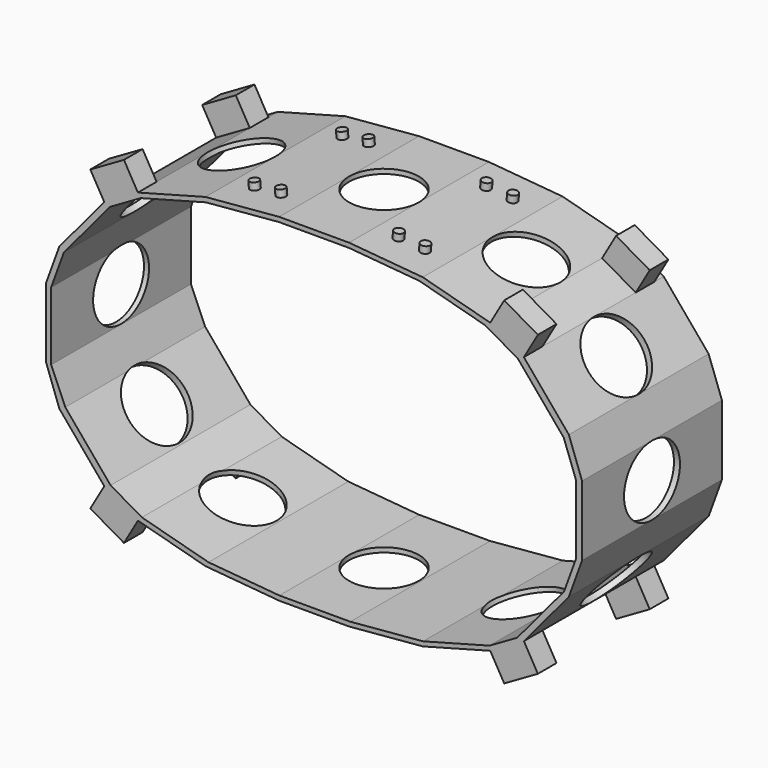
from build123d import *

# Parameters (mm, degrees)
PAD_DEPTH       = 75
SKETCH001_R     = 15
POCKET_DEPTH    = 3
SKETCH002_R     = 15
POCKET001_DEPTH = 3
SKETCH003_R     = 15
POCKET002_DEPTH = 3
SKETCH004_R     = 15
POCKET003_DEPTH = 3
SKETCH005_R     = 15
POCKET004_DEPTH = 3
SKETCH006_R     = 15
POCKET005_DEPTH = 3
SKETCH007_R     = 15
POCKET006_DEPTH = 3
SKETCH008_R     = 15
POCKET007_DEPTH = 3
SKETCH009_R     = 15
POCKET008_DEPTH = 3
SKETCH010_R     = 15
POCKET009_DEPTH = 3
SKETCH011_R     = 15
POCKET010_DEPTH = 3
SKETCH012_R     = 15
POCKET011_DEPTH = 3
SKETCH013_W     = 16.6623057169
SKETCH013_H     = 10
PAD001_DEPTH    = 12
SKETCH014_W     = 16.6623057169
SKETCH014_H     = 10
PAD002_DEPTH    = 12
SKETCH015_W     = 16.6623057169
SKETCH015_H     = 10
PAD003_DEPTH    = 12
SKETCH016_W     = 16.6623057169
SKETCH016_H     = 10
PAD004_DEPTH    = 12
SKETCH017_W     = 16.6623057169
SKETCH017_H     = 10
PAD005_DEPTH    = 12
SKETCH018_R     = 2
PAD006_DEPTH    = 3
SKETCH019_R     = 2
PAD007_DEPTH    = 3
SKETCH020_R     = 2
PAD008_DEPTH    = 3
SKETCH021_R     = 2
PAD009_DEPTH    = 3


with BuildPart() as part:
    # Sketch → Pad (new body)
    with BuildSketch(Plane.XZ):
        Polygon((-115, 15), (-115, -15), (-109.3011558106, -30.6574457275), (-90.01752752, -53.638779021), (-75.5875474835, -61.9699318795), (-46.6097726948, -69.7345032326), (-15, -72.5), (15, -72.5), (46.6097726948, -69.7345032326), (75.5875474835, -61.9699318795), (90.01752752, -53.638779021), (109.3011558106, -30.6574457275), (115, -15), (115, 15), (109.3011558106, 30.6574457275), (90.01752752, 53.638779021), (75.5875474835, 61.9699318795), (46.6097726948, 69.7345032326), (15, 72.5), (-15, 72.5), (-46.6097726948, 69.7345032326), (-75.5875474835, 61.9699318795), (-90.01752752, 53.638779021), (-109.3011558106, 30.6574457275), align=None)
        Polygon((-15, 70.5), (15, 70.5), (45.1474724059, 67.8624379305), (73.5017505011, 60.2649320129), (87.4928960516, 52.1871403631), (107.1664449714, 28.7411177589), (112.4249806172, 14.2934098125), (112.4249806172, -15.129325967), (107.2690057988, -29.295250356), (87.1410348375, -53.2828320607), (75.2862851494, -60.1271749843), (46.7496758605, -67.773536398), (15.5584899901, -70.5024115636), (-14.9018142644, -70.5024115636), (-45.3108694437, -67.8419639668), (-73.8953035194, -60.1827879401), (-87.3182795517, -52.4330291146), (-106.7555862722, -29.268549), (-112.8239045631, -15.209551), (-112.8239045631, 14.0555263106), (-107.3779577019, 29.0181423395), (-87.4996413362, 52.708197283), (-74.455381738, 60.2393040734), (-46.4214173604, 67.7509821891), align=None, mode=Mode.SUBTRACT)
    extrude(amount=PAD_DEPTH)

    # Sketch001 (on Face24 of Pad) → Pocket (cut)
    with BuildSketch(Plane(origin=(0, 0, 72.5), x_dir=(-1, 0, 0), z_dir=(0, 0, 1))):
        with Locations((0, 37.5)):
            Circle(SKETCH001_R)
    extrude(amount=-POCKET_DEPTH, mode=Mode.SUBTRACT)

    # Sketch002 (on Face28 of Pocket) → Pocket001 (cut)
    with BuildSketch(Plane(origin=(20.5558885464, 0, 76.7156204498), x_dir=(-0.9659258263, 0, 0.2588190451), z_dir=(0.2588190451, 0, 0.9659258263))):
        with Locations((-41.972965666, 37.5)):
            Circle(SKETCH002_R)
    extrude(amount=-POCKET001_DEPTH, mode=Mode.SUBTRACT)

    # Sketch003 (on Face4 of Pocket001) → Pocket002 (cut)
    with BuildSketch(Plane(origin=(-20.5558885464, 0, 76.7156204498), x_dir=(-0.9659258263, 0, -0.2588190451), z_dir=(-0.2588190451, 0, 0.9659258263))):
        with Locations((41.972965666, 37.5)):
            Circle(SKETCH003_R)
    extrude(amount=-POCKET002_DEPTH, mode=Mode.SUBTRACT)

    # Sketch004 (on Face28 of Pocket002) → Pocket003 (cut)
    with BuildSketch(Plane(origin=(79.236396287, 0, 66.4872309002), x_dir=(-0.6427876097, 0, 0.7660444431), z_dir=(0.7660444431, 0, 0.6427876097))):
        with Locations((-31.7724627397, 37.5)):
            Circle(SKETCH004_R)
    extrude(amount=-POCKET003_DEPTH, mode=Mode.SUBTRACT)

    # Sketch005 (on Face12 of Pocket003) → Pocket004 (cut)
    with BuildSketch(Plane(origin=(-79.236396287, 0, 66.4872309002), x_dir=(-0.6427876097, 0, -0.7660444431), z_dir=(-0.7660444431, 0, 0.6427876097))):
        with Locations((31.7724627397, 37.5)):
            Circle(SKETCH005_R)
    extrude(amount=-POCKET004_DEPTH, mode=Mode.SUBTRACT)

    # Sketch006 (on Face26 of Pocket004) → Pocket005 (cut)
    with BuildSketch(Plane(origin=(115, 0, 0), x_dir=(0, 0, 1), z_dir=(1, 0, 0))):
        with Locations((0, 37.5)):
            Circle(SKETCH006_R)
    extrude(amount=-POCKET005_DEPTH, mode=Mode.SUBTRACT)

    # Sketch007 (on Face14 of Pocket005) → Pocket006 (cut)
    with BuildSketch(Plane(origin=(-115, 0, 0), x_dir=(0, 0, -1), z_dir=(-1, 0, 0))):
        with Locations((0, 37.5)):
            Circle(SKETCH007_R)
    extrude(amount=-POCKET006_DEPTH, mode=Mode.SUBTRACT)

    # Sketch008 (on Face16 of Pocket006) → Pocket007 (cut)
    with BuildSketch(Plane(origin=(-79.236396287, 0, -66.4872309002), x_dir=(0.6427876097, 0, -0.7660444431), z_dir=(-0.7660444431, 0, -0.6427876097))):
        with Locations((-31.7724627397, 37.5)):
            Circle(SKETCH008_R)
    extrude(amount=-POCKET007_DEPTH, mode=Mode.SUBTRACT)

    # Sketch009 (on Face18 of Pocket007) → Pocket008 (cut)
    with BuildSketch(Plane(origin=(-20.5558885464, 0, -76.7156204498), x_dir=(0.9659258263, 0, -0.2588190451), z_dir=(-0.2588190451, 0, -0.9659258263))):
        with Locations((-41.972965666, 37.5)):
            Circle(SKETCH009_R)
    extrude(amount=-POCKET008_DEPTH, mode=Mode.SUBTRACT)

    # Sketch010 (on Face20 of Pocket008) → Pocket009 (cut)
    with BuildSketch(Plane(origin=(0, 0, -72.5), x_dir=(1, 0, 0), z_dir=(0, 0, -1))):
        with Locations((0, 37.5)):
            Circle(SKETCH010_R)
    extrude(amount=-POCKET009_DEPTH, mode=Mode.SUBTRACT)

    # Sketch011 (on Face22 of Pocket009) → Pocket010 (cut)
    with BuildSketch(Plane(origin=(20.5558885464, 0, -76.7156204498), x_dir=(0.9659258263, 0, 0.2588190451), z_dir=(0.2588190451, 0, -0.9659258263))):
        with Locations((41.972965666, 37.5)):
            Circle(SKETCH011_R)
    extrude(amount=-POCKET010_DEPTH, mode=Mode.SUBTRACT)

    # Sketch012 (on Face24 of Pocket010) → Pocket011 (cut)
    with BuildSketch(Plane(origin=(79.236396287, 0, -66.4872309002), x_dir=(0.6427876097, 0, 0.7660444431), z_dir=(0.7660444431, 0, -0.6427876097))):
        with Locations((31.7724627397, 37.5)):
            Circle(SKETCH012_R)
    extrude(amount=-POCKET011_DEPTH, mode=Mode.SUBTRACT)

    # Sketch013 (on Face29 of Pocket011) → Pad001 (join)
    with BuildSketch(Plane(origin=(45.7306545101, 0, 79.2078170749), x_dir=(-0.8660254038, 0, 0.5), z_dir=(0.5, 0, 0.8660254038))):
        with Locations((-42.8069232492, 10)):
            Rectangle(SKETCH013_W, SKETCH013_H)
        with Locations((-42.8069232492, 70)):
            Rectangle(SKETCH013_W, SKETCH013_H)
    extrude(amount=PAD001_DEPTH)

    # Sketch014 (on Face10 of Pad001) → Pad002 (join)
    with BuildSketch(Plane(origin=(-45.7306545101, 0, 79.2078170749), x_dir=(-0.8660254038, 0, -0.5), z_dir=(-0.5, 0, 0.8660254038))):
        with Locations((42.8069232492, 10)):
            Rectangle(SKETCH014_W, SKETCH014_H)
    extrude(amount=PAD002_DEPTH)

    # Sketch015 (on Face19 of Pad002) → Pad003 (join)
    with BuildSketch(Plane(origin=(-45.7306545101, 0, -79.2078170749), x_dir=(0.8660254038, 0, -0.5), z_dir=(-0.5, 0, -0.8660254038))):
        with Locations((-42.8069232492, 10)):
            Rectangle(SKETCH015_W, SKETCH015_H)
        with Locations((-42.8069232492, 70)):
            Rectangle(SKETCH015_W, SKETCH015_H)
    extrude(amount=PAD003_DEPTH)

    # Sketch016 (on Face25 of Pad003) → Pad004 (join)
    with BuildSketch(Plane(origin=(45.7306545101, 0, -79.2078170749), x_dir=(0.8660254038, 0, 0.5), z_dir=(0.5, 0, -0.8660254038))):
        with Locations((42.8069232492, 10)):
            Rectangle(SKETCH016_W, SKETCH016_H)
        with Locations((42.8069232492, 70)):
            Rectangle(SKETCH016_W, SKETCH016_H)
    extrude(amount=PAD004_DEPTH)

    # Sketch017 (on Face12 of Pad004) → Pad005 (join)
    with BuildSketch(Plane(origin=(-45.7306545101, 0, 79.2078170749), x_dir=(-0.8660254038, 0, -0.5), z_dir=(-0.5, 0, 0.8660254038))):
        with Locations((42.8069232492, 70)):
            Rectangle(SKETCH017_W, SKETCH017_H)
    extrude(amount=PAD005_DEPTH)

    # Sketch018 (on Face1 of Pad005) → Pad006 (join)
    with BuildSketch(Plane(origin=(-6.4086882928, 0, 73.2516423792), x_dir=(-0.9961946981, 0, -0.0871557427), z_dir=(-0.0871557427, 0, 0.9961946981))):
        with Locations((30.3241291222, 61)):
            Circle(SKETCH018_R)
        with Locations((18.9241291222, 61)):
            Circle(SKETCH018_R)
        with Locations((18.9241291222, 14)):
            Circle(SKETCH018_R)
        with Locations((30.3241291222, 14)):
            Circle(SKETCH018_R)
    extrude(amount=PAD006_DEPTH)

    # Sketch019 (on Face12 of Pad006) → Pad007 (join)
    with BuildSketch(Plane(origin=(6.4086882928, 0, 73.2516423792), x_dir=(-0.9961946981, 0, 0.0871557427), z_dir=(0.0871557427, 0, 0.9961946981))):
        with Locations((-30.0546460135, 61)):
            Circle(SKETCH019_R)
        with Locations((-18.6546460135, 61)):
            Circle(SKETCH019_R)
        with Locations((-18.6546460135, 14)):
            Circle(SKETCH019_R)
        with Locations((-30.0546460135, 14)):
            Circle(SKETCH019_R)
    extrude(amount=PAD007_DEPTH)

    # Sketch020 (on Face22 of Pad007) → Pad008 (join)
    with BuildSketch(Plane(origin=(-6.4086882928, 0, -73.2516423792), x_dir=(0.9961946981, 0, -0.0871557427), z_dir=(-0.0871557427, 0, -0.9961946981))):
        with Locations((-30.0546460135, 61)):
            Circle(SKETCH020_R)
        with Locations((-18.6546460135, 61)):
            Circle(SKETCH020_R)
        with Locations((-30.0546460135, 14)):
            Circle(SKETCH020_R)
        with Locations((-18.6546460135, 14)):
            Circle(SKETCH020_R)
    extrude(amount=PAD008_DEPTH)

    # Sketch021 (on Face24 of Pad008) → Pad009 (join)
    with BuildSketch(Plane(origin=(6.4086882928, 0, -73.2516423792), x_dir=(0.9961946981, 0, 0.0871557427), z_dir=(0.0871557427, 0, -0.9961946981))):
        with Locations((18.9241291222, 61)):
            Circle(SKETCH021_R)
        with Locations((30.3241291222, 61)):
            Circle(SKETCH021_R)
        with Locations((18.9241291222, 14)):
            Circle(SKETCH021_R)
        with Locations((30.3241291222, 14)):
            Circle(SKETCH021_R)
    extrude(amount=PAD009_DEPTH)


solid = part.part
